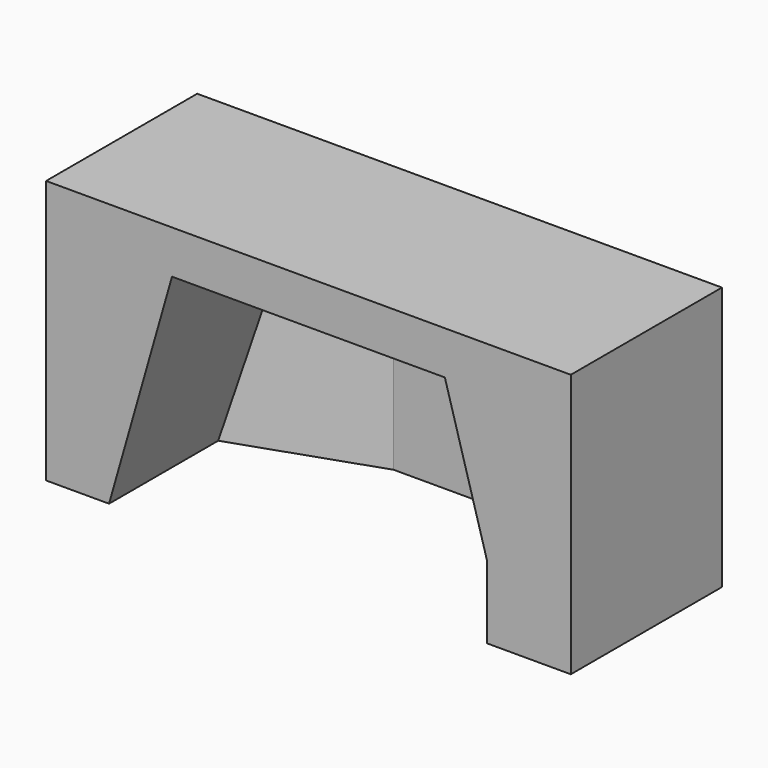
from build123d import *

# Parameters (mm, degrees)
F1_DEPTH = 457.2
F3_DEPTH = 25.4
F5_DEPTH = 638.23027


with BuildPart() as f1:
    # F0 (on Front) → F1 (new body)
    with BuildSketch(Plane.XZ):
        Polygon((-622.3, 25.4), (-469.9, 25.4), (-317.5, 558.8), (342.9, 558.8), (495.3, 25.4), (647.7, 25.4), (647.7, 663.63027), (-622.3, 663.63027), align=None)
    extrude(amount=-F1_DEPTH)

    # F2 (on face) → F3 (join)
    with BuildSketch(Plane.XZ):
        Polygon((444.5, 25.4), (495.3, 25.4), (444.5, 203.2), align=None)
    extrude(amount=-F3_DEPTH)

    # F4 (on face) → F5 (join, through all)
    with BuildSketch(Plane.XY.offset(663.63027)):
        Polygon((495.3, 457.2), (-469.9, 457.2), (-469.9, 330.2), (-136.640207, 444.5), (162.040207, 444.5), (495.3, 330.2), align=None)
    extrude(amount=-F5_DEPTH)


solid = f1.part
